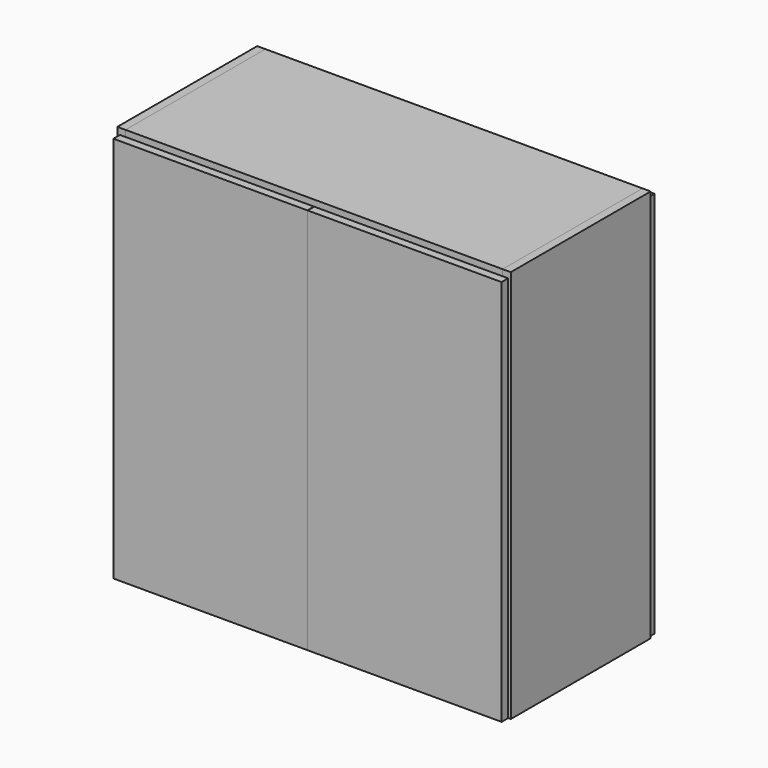
from build123d import *

# Parameters (mm, degrees)
F0_W     = 406.4
F0_H     = 914.4
F1_DEPTH = 19.05
F2_R     = 2.5
F3_DEPTH = 12.7
F4_W     = 381
F4_H     = 19.05
F4_W_2   = 368.3
F4_H_2   = 18.216484
F6_DEPTH = 876.3
F8_W     = 450.85
F8_H     = 899.84496
F9_DEPTH = 19.05


with BuildPart() as f1:
    # F0 (on Right) → F1 (new body)
    with BuildSketch(Plane.YZ):
        with Locations((203.2, 457.2)):
            Rectangle(F0_W, F0_H)
    extrude(amount=F1_DEPTH)

    # F2 (on face) → F3 (cut)
    with BuildSketch(Plane.YZ.offset(19.05)):
        with Locations((38.1, 152.4)):
            Circle(F2_R)
        with Locations((38.1, 184.4)):
            Circle(F2_R)
        with Locations((38.1, 216.4)):
            Circle(F2_R)
        with Locations((38.1, 248.4)):
            Circle(F2_R)
        with Locations((38.1, 280.4)):
            Circle(F2_R)
        with Locations((38.1, 312.4)):
            Circle(F2_R)
        with Locations((38.1, 344.4)):
            Circle(F2_R)
        with Locations((38.1, 376.4)):
            Circle(F2_R)
        with Locations((38.1, 408.4)):
            Circle(F2_R)
        with Locations((38.1, 440.4)):
            Circle(F2_R)
        with Locations((38.1, 472.4)):
            Circle(F2_R)
        with Locations((38.1, 504.4)):
            Circle(F2_R)
        with Locations((38.1, 536.4)):
            Circle(F2_R)
        with Locations((38.1, 568.4)):
            Circle(F2_R)
        with Locations((38.1, 600.4)):
            Circle(F2_R)
        with Locations((38.1, 632.4)):
            Circle(F2_R)
        with Locations((38.1, 664.4)):
            Circle(F2_R)
        with Locations((38.1, 696.4)):
            Circle(F2_R)
        with Locations((38.1, 728.4)):
            Circle(F2_R)
        with Locations((38.1, 760.4)):
            Circle(F2_R)
        with Locations((368.3, 152.4)):
            Circle(F2_R)
        with Locations((368.3, 184.4)):
            Circle(F2_R)
        with Locations((368.3, 216.4)):
            Circle(F2_R)
        with Locations((368.3, 248.4)):
            Circle(F2_R)
        with Locations((368.3, 280.4)):
            Circle(F2_R)
        with Locations((368.3, 312.4)):
            Circle(F2_R)
        with Locations((368.3, 344.4)):
            Circle(F2_R)
        with Locations((368.3, 376.4)):
            Circle(F2_R)
        with Locations((368.3, 408.4)):
            Circle(F2_R)
        with Locations((368.3, 440.4)):
            Circle(F2_R)
        with Locations((368.3, 472.4)):
            Circle(F2_R)
        with Locations((368.3, 504.4)):
            Circle(F2_R)
        with Locations((368.3, 536.4)):
            Circle(F2_R)
        with Locations((368.3, 568.4)):
            Circle(F2_R)
        with Locations((368.3, 600.4)):
            Circle(F2_R)
        with Locations((368.3, 632.4)):
            Circle(F2_R)
        with Locations((368.3, 664.4)):
            Circle(F2_R)
        with Locations((368.3, 696.4)):
            Circle(F2_R)
        with Locations((368.3, 728.4)):
            Circle(F2_R)
        with Locations((368.3, 760.4)):
            Circle(F2_R)
    extrude(amount=-F3_DEPTH, mode=Mode.SUBTRACT)


with BuildPart() as f6:
    # F4 (on face) → F6 (new body)
    with BuildSketch(Plane.YZ.offset(19.05)):
        with Locations((203.203729, 263.754814)):
            Rectangle(F4_W, F4_H)
        with Locations((203.203729, 456.794814)):
            Rectangle(F4_W, F4_H)
        with Locations((203.203729, 649.834814)):
            Rectangle(F4_W, F4_H)
        Polygon((19.05, 914.4), (0, 914.4), (0, 876.3), (19.05, 876.3), (19.05, 895.35), align=None)
        Polygon((406.4, 914.4), (387.35, 914.4), (387.35, 895.35), (387.35, 876.3), (406.4, 876.3), align=None)
        with Locations((203.2, 904.875)):
            Rectangle(F4_W_2, F4_H)
        Polygon((19.05, 50.8), (0, 50.8), (0, 0), (19.05, 0), (19.05, 32.583516), align=None)
        Polygon((406.4, 50.8), (387.35, 50.8), (387.35, 32.583516), (387.35, 0), (406.4, 0), align=None)
        with Locations((203.2, 41.691758)):
            Rectangle(F4_W_2, F4_H_2)
    extrude(amount=F6_DEPTH)


with BuildPart() as f7_1:
    # F7: instance of F1
    add(f1.part.mirror(Plane.YZ.offset(457.2)))


with BuildPart() as f9:
    # F8 (on face) → F9 (new body)
    with BuildSketch(Plane.XZ):
        with Locations((231.466869, 449.92248)):
            Rectangle(F8_W, F8_H)
    extrude(amount=F9_DEPTH)


with BuildPart() as f10_1:
    # F10: instance of F9
    add(f9.part.mirror(Plane.YZ.offset(457.2)))


with BuildPart() as f12_1:
    # F12: instance of F9
    add(f9.part.mirror(Plane.XZ.offset(-203.2)))


with BuildPart() as f12_2:
    # F12: instance of F10_1
    add(f10_1.part.mirror(Plane.XZ.offset(-203.2)))


solid = Compound([f1.part, f6.part, f7_1.part, f9.part, f10_1.part, f12_1.part, f12_2.part])
